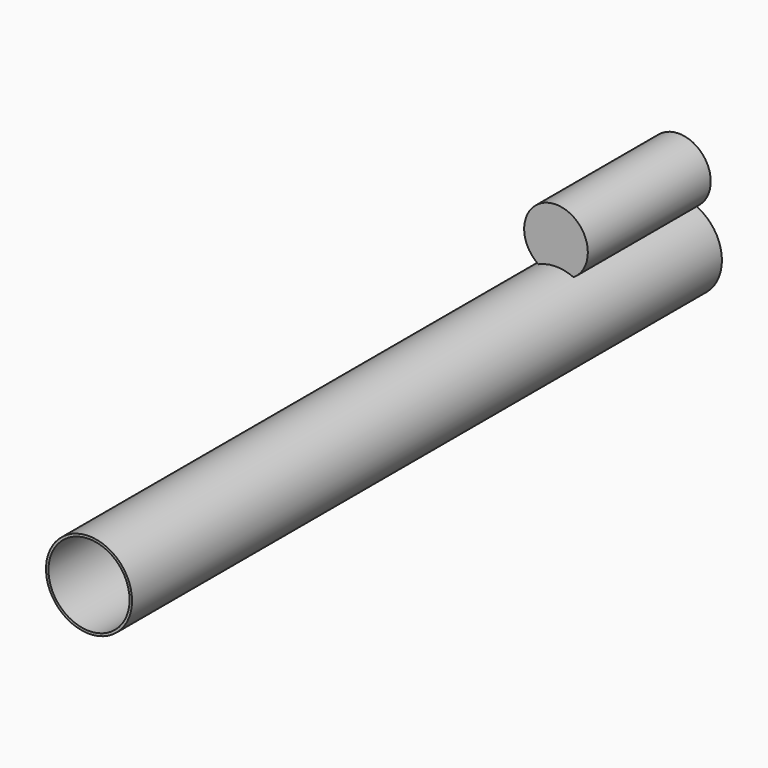
from build123d import *

# Parameters (mm, degrees)
F0_R     = 106.68
F0_R_2   = 100.584
F1_DEPTH = 1828.8
F2_R     = 78.9305
F2_R_2   = 75.1205
F3_DEPTH = 381


with BuildPart() as f1:
    # F0 (on Front) → F1 (new body)
    with BuildSketch(Plane.XZ):
        Circle(F0_R)
        Circle(F0_R_2, mode=Mode.SUBTRACT)
    extrude(amount=F1_DEPTH)


with BuildPart() as f3:
    # F2 (on Front) → F3 (new body)
    with BuildSketch(Plane.XZ):
        with Locations((0, 163.190738)):
            Circle(F2_R)
        with Locations((0, 163.190738)):
            Circle(F2_R_2, mode=Mode.SUBTRACT)
        with Locations((0, 163.190738)):
            Circle(F2_R_2)
    extrude(amount=F3_DEPTH)


solid = Compound([f1.part, f3.part])
